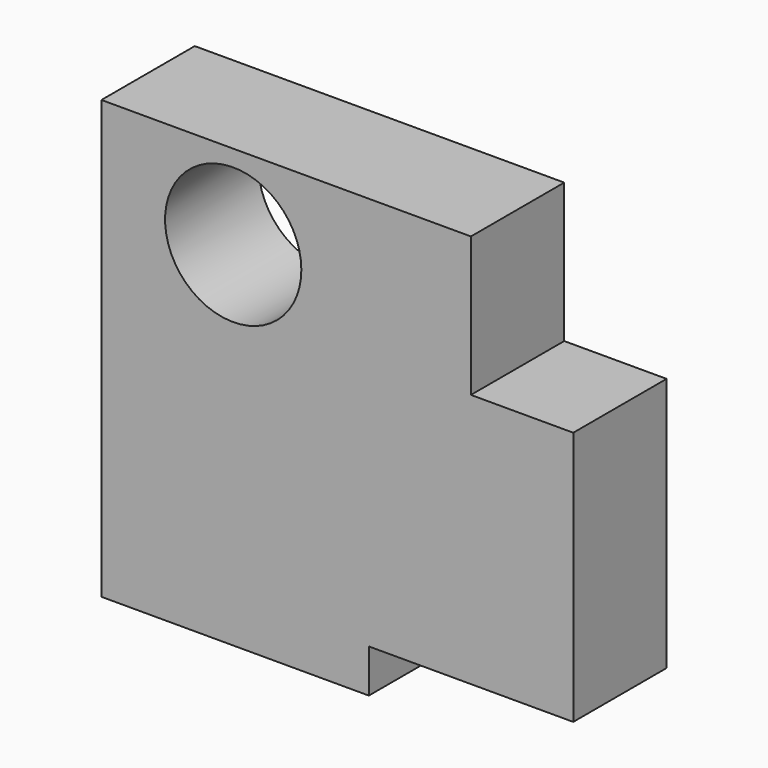
from build123d import *

# Parameters (mm, degrees)
F0_W     = 22.224892
F0_H     = 30.376296
F1_DEPTH = 25.4
F2_R     = 14.832934
F3_DEPTH = 25.401


with BuildPart() as f1:
    # F0 (on Front) → F1 (new body)
    with BuildSketch(Plane.XZ):
        Polygon((-60.305666, 60.30567), (-118.531823, 60.30567), (-118.531823, -34.93569), (-60.305666, -34.93569), (-60.305666, -25.506545), (-60.305666, 29.929374), align=None)
        Polygon((-38.080774, 29.929374), (-60.305666, 29.929374), (-60.305666, -25.506545), (-15.796112, -25.506545), (-15.796112, 29.929374), align=None)
        with Locations((-49.19322, 45.117522)):
            Rectangle(F0_W, F0_H)
    extrude(amount=F1_DEPTH)

    # F2 (on Front) → F3 (cut, through all)
    with BuildSketch(Plane.XZ):
        with Locations((-89.834586, 41.88443)):
            Circle(F2_R)
    extrude(amount=F3_DEPTH, mode=Mode.SUBTRACT)


solid = f1.part
